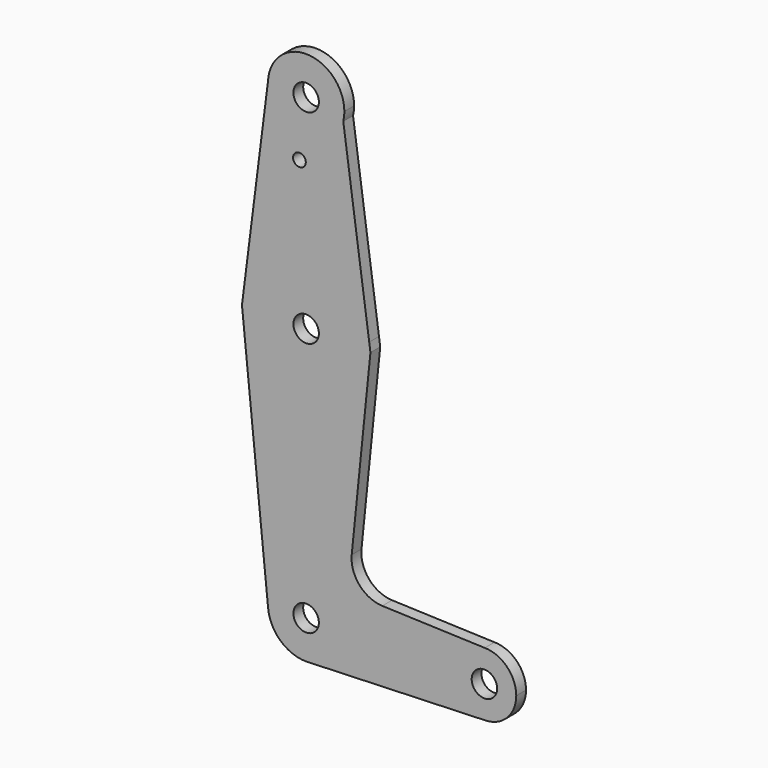
from build123d import *

# Parameters (mm, degrees)
F0_R     = 3.175
F0_R_2   = 1.5875
F1_DEPTH = 3.048


with BuildPart() as f1:
    # F0 (on Front) → F1 (new body)
    with BuildSketch(Plane.XZ):
        with BuildLine():
            ThreePointArc((-15.7492693862, 1.9940257774), (-0.9989928663, -15.8435361663), (15.875, 0))
            ThreePointArc((15.875, 0), (15.8368957195, 1.0992538236), (15.7227657992, 2.193230636))
            ThreePointArc((15.7227657992, 2.193230636), (-0.1004801172, 15.8746820046), (-15.7492693862, 1.9940257774))
        make_face()
        Circle(F0_R, mode=Mode.SUBTRACT)
        with BuildLine():
            ThreePointArc((15.7227657992, 2.193230636), (15.8368957195, 1.0992538236), (15.875, 0))
            ThreePointArc((15.875, 0), (-0.9989928663, -15.8435361663), (-15.7492693862, 1.9940257774))
            Line((-15.7492693862, 1.9940257774), (-16.0017343328, 0))
            Line((-16.0017343328, 0), (-9.4765688706, -64.4593057079))
            ThreePointArc((-9.4765688706, -64.4593057079), (-6.9508468071, -56.9876000073), (0.3406952706, -53.981095035))
            ThreePointArc((0.3406952706, -53.981095035), (6.8545877867, -56.8863586978), (9.525, -63.5))
            ThreePointArc((9.525, -63.5), (6.9705567315, -69.9912990883), (0.6773435479, -73.000885786))
            Line((0.6773435479, -73.000885786), (44.7324052746, -71.4324746146))
            ThreePointArc((44.7324052746, -71.4324746146), (36.5130935793, -63.5970706897), (44.5383168472, -55.5629913453))
            Line((44.5383168472, -55.5629913453), (18.9882150094, -54.6485165301))
            ThreePointArc((18.9882150094, -54.6485165301), (13.2791460371, -51.9268515126), (11.3631381641, -45.8994272842))
            Line((11.3631381641, -45.8994272842), (16.0287081875, 0))
            Line((16.0287081875, 0), (15.7227657992, 2.193230636))
        make_face()
        with BuildLine():
            ThreePointArc((-15.7492693862, 1.9940257774), (-0.1004801172, 15.8746820046), (15.7227657992, 2.193230636))
            Line((15.7227657992, 2.193230636), (9.2559710275, 48.5521954403))
            ThreePointArc((9.2559710275, 48.5521954403), (-1.3462658483, 41.3706207381), (-9.5151884168, 51.2322203063))
            Line((-9.5151884168, 51.2322203063), (-15.7492693862, 1.9940257774))
        make_face()
        with Locations((-1.6763966996, 36.5252)):
            Circle(F0_R_2, mode=Mode.SUBTRACT)
        with BuildLine():
            ThreePointArc((-9.5151884168, 51.2322203063), (-1.3462658483, 41.3706207381), (9.2559710275, 48.5521954403))
            ThreePointArc((9.2559710275, 48.5521954403), (9.4575036092, 49.668076645), (9.525, 50.8))
            ThreePointArc((9.525, 50.8), (0.2161658278, 60.3225467883), (-9.5151884168, 51.2322203063))
        make_face()
        with Locations((0, 50.8)):
            Circle(F0_R, mode=Mode.SUBTRACT)
        with BuildLine():
            ThreePointArc((0.3406952706, -53.981095035), (-6.9508468071, -56.9876000073), (-9.4765688706, -64.4593057079))
            ThreePointArc((-9.4765688706, -64.4593057079), (-6.3870274045, -70.5662228902), (0, -73.025))
            Line((0, -73.025), (0.6773435479, -73.000885786))
            ThreePointArc((0.6773435479, -73.000885786), (6.9705567315, -69.9912990883), (9.525, -63.5))
            ThreePointArc((9.525, -63.5), (6.8545877867, -56.8863586978), (0.3406952706, -53.981095035))
        make_face()
        with Locations((0, -63.5)):
            Circle(F0_R, mode=Mode.SUBTRACT)
        with BuildLine():
            Line((0.6773435479, -73.000885786), (0, -73.025))
            ThreePointArc((0, -73.025), (0.3388863295, -73.0189695375), (0.6773435479, -73.000885786))
        make_face()
        with BuildLine():
            ThreePointArc((52.3875, -63.5), (50.0937984206, -57.9186519874), (44.5383168472, -55.5629913453))
            ThreePointArc((44.5383168472, -55.5629913453), (36.5130935793, -63.5970706897), (44.7324052746, -71.4324746146))
            ThreePointArc((44.7324052746, -71.4324746146), (50.1616327839, -69.0119104847), (52.3875, -63.5))
        make_face()
        with Locations((44.45, -63.5)):
            Circle(F0_R, mode=Mode.SUBTRACT)
    extrude(amount=F1_DEPTH)


solid = f1.part
